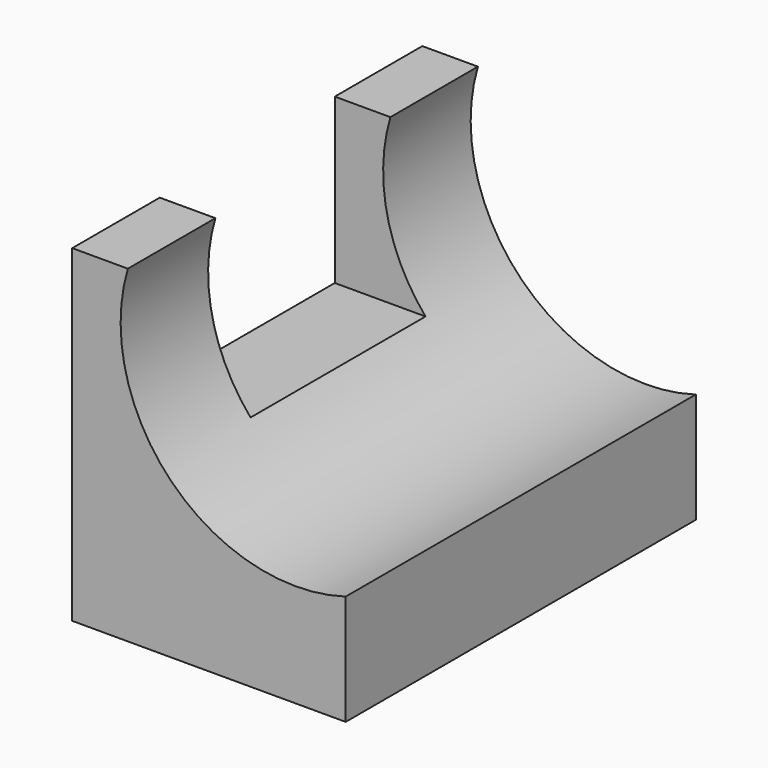
from build123d import *

# Parameters (mm, degrees)
F0_W     = 63.5
F0_H     = 76.2
F1_DEPTH = 101.6
F3_DEPTH = 144.018
F4_W     = 12.4857110355
F4_H     = 50.8
F4_W_2   = 12.9142889645
F5_DEPTH = 38.1


with BuildPart() as f1:
    # F0 (on Front) → F1 (new body)
    with BuildSketch(Plane.XZ):
        with Locations((-20.1713825464, 1.844201237)):
            Rectangle(F0_W, F0_H)
    extrude(amount=F1_DEPTH)

    # F2 (on face) → F3 (cut)
    with BuildSketch(Plane.XZ.offset(101.6)):
        with BuildLine():
            ThreePointArc((11.5786174536, -10.632746352), (32.6080102155, 4.0376145015), (40.6873602154, 28.372341767))
            ThreePointArc((40.6873602154, 28.372341767), (5.8466064421, 68.6374442058), (-39.0070935819, 39.944201237))
            Line((-39.0070935819, 39.944201237), (11.5786174536, 39.944201237))
            Line((11.5786174536, 39.944201237), (11.5786174536, -10.632746352))
        make_face()
        with BuildLine():
            Line((11.5786174536, 39.944201237), (-39.0070935819, 39.944201237))
            ThreePointArc((-39.0070935819, 39.944201237), (-28.7678159153, -0.4004587357), (11.5786174536, -10.632746352))
            Line((11.5786174536, -10.632746352), (11.5786174536, 39.944201237))
        make_face()
    extrude(amount=-F3_DEPTH, mode=Mode.SUBTRACT)

    # F4 (on face) → F5 (cut)
    with BuildSketch(Plane.XY.offset(39.944201237)):
        with Locations((-32.7642380642, -50.8)):
            Rectangle(F4_W, F4_H)
        with Locations((-45.4642380642, -50.8)):
            Rectangle(F4_W_2, F4_H)
    extrude(amount=-F5_DEPTH, mode=Mode.SUBTRACT)


solid = f1.part
